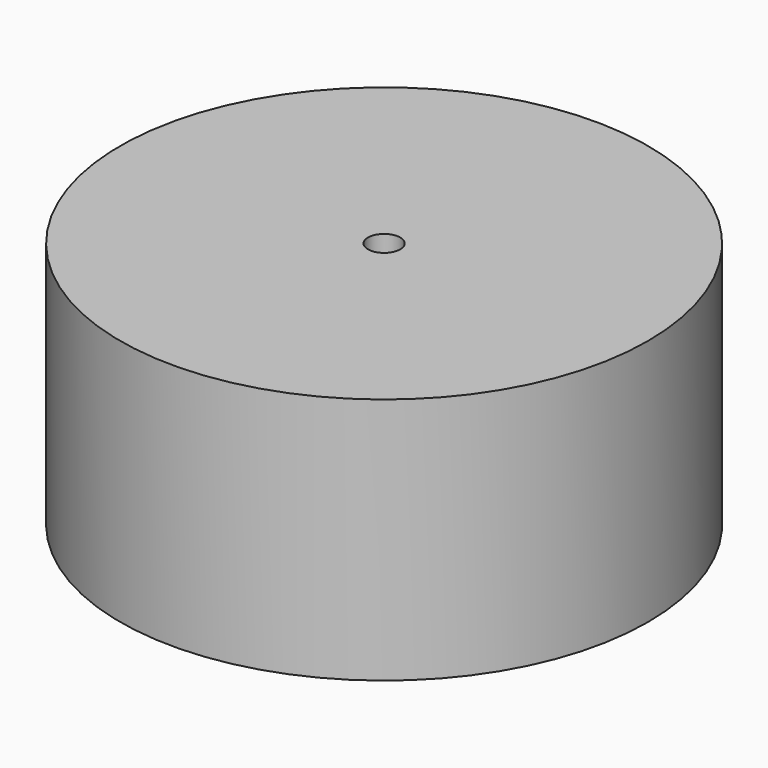
from build123d import *

# Parameters (mm, degrees)
CYLINDER001_R     = 3.9
CYLINDER001_DEPTH = 60
SKETCH001_R       = 64
PAD001_DEPTH      = 60


with BuildPart() as cylinder001:
    # Cylinder001 → Cylinder001 (new body)
    with BuildSketch(Plane.XY):
        Circle(CYLINDER001_R)
    extrude(amount=CYLINDER001_DEPTH)


with BuildPart() as cut001:
    # Sketch001 → Pad001 (new body)
    with BuildSketch(Plane.XY):
        Circle(SKETCH001_R)
    extrude(amount=PAD001_DEPTH)

    # Cut001: cut Cylinder001
    add(cylinder001.part, mode=Mode.SUBTRACT)


with BuildPart() as cut001_1:
    # Cut001 placement: moved
    add(cut001.part.moved(Location((90, -440, 0))))


solid = cut001_1.part
